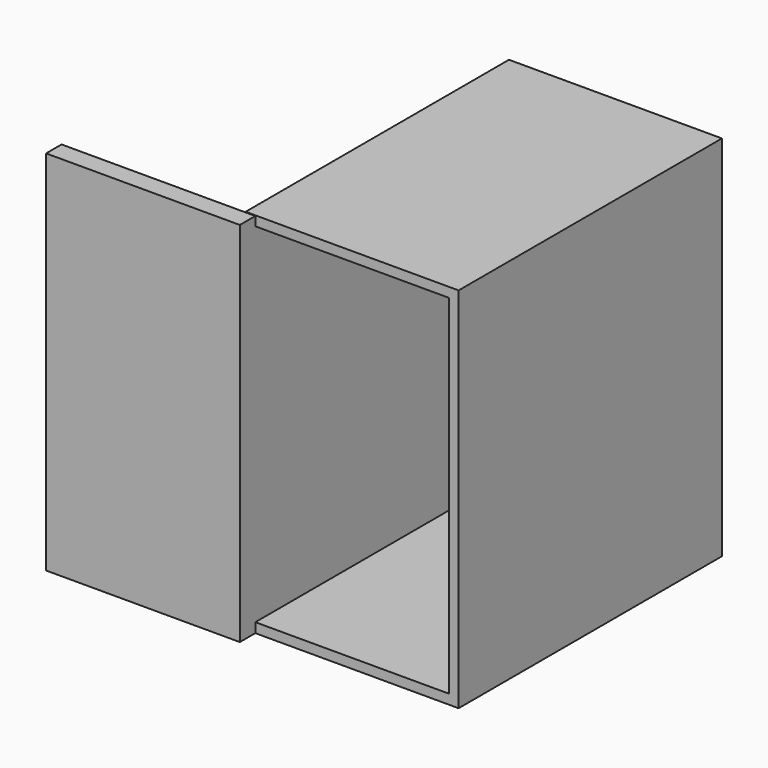
from build123d import *

# Parameters (mm, degrees)
F0_W     = 279.4
F0_H     = 482.6
F1_DEPTH = 431.8
F2_T     = -12.7
F3_W     = 254.188428
F3_H     = 481.781103
F4_DEPTH = 25.4


with BuildPart() as f1:
    # F0 (on Front) → F1 (new body)
    with BuildSketch(Plane.XZ):
        with Locations((121.389246, 165.165817)):
            Rectangle(F0_W, F0_H)
    extrude(amount=F1_DEPTH)

    # F2
    f2_openings = [f1.faces().sort_by_distance(p)[0] for p in [
        (121.389246, -431.8, 165.165817),
    ]]
    offset(amount=F2_T, openings=f2_openings)

    # F3 (on face) → F4 (join)
    with BuildSketch(Plane.XZ.offset(431.8)):
        with Locations((-132.704968, 164.756368)):
            Rectangle(F3_W, F3_H)
    extrude(amount=F4_DEPTH)


solid = f1.part
